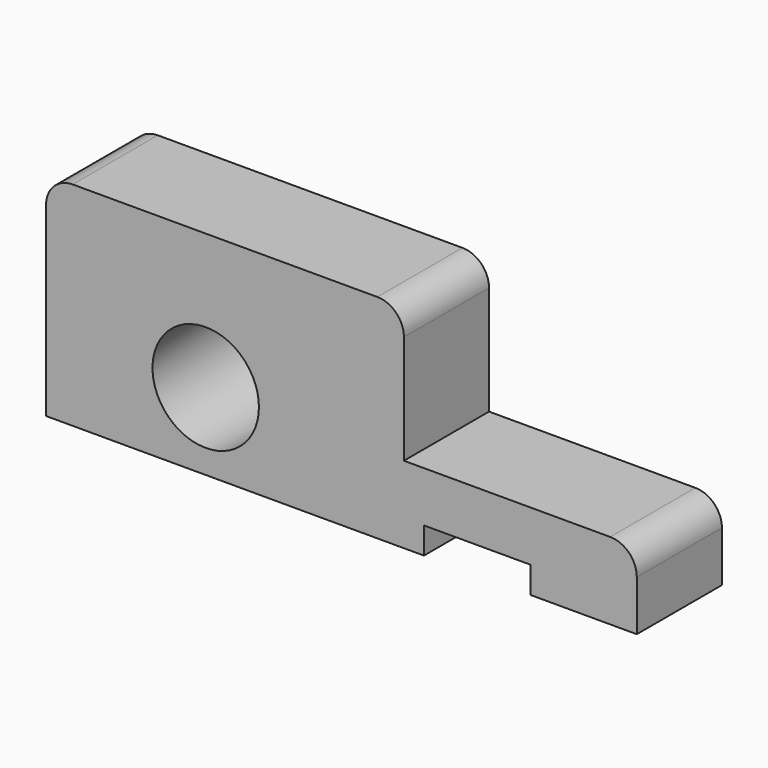
from build123d import *

# Parameters (mm, degrees)
F1_DEPTH = 20
F2_R     = 5
F3_R     = 10
F4_DEPTH = 20.001
F5_W     = 20
F5_H     = 5
F6_DEPTH = 15


with BuildPart() as f1:
    # F0 (on Front) → F1 (new body)
    with BuildSketch(Plane.XZ):
        Polygon((0, 39.944667), (0, 0), (111.015879, 0), (111.015879, 14.474314), (67.249916, 14.474314), (67.249916, 39.944667), align=None)
    extrude(amount=F1_DEPTH)

    # F2
    f2_edges = [f1.edges().sort_by_distance(p)[0] for p in [
        (67.249916, -10, 39.944667),
        (111.015879, -10, 14.474314),
        (0, -10, 39.944667),
    ]]
    fillet(f2_edges, radius=F2_R)

    # F3 (on face) → F4 (cut, through all)
    with BuildSketch(Plane.XZ.offset(20)):
        with Locations((30, 14.474314)):
            Circle(F3_R)
    extrude(amount=-F4_DEPTH, mode=Mode.SUBTRACT)

    # F5 (on face) → F6 (cut)
    with BuildSketch(Plane.XZ.offset(20)):
        with Locations((81.015879, 2.5)):
            Rectangle(F5_W, F5_H)
    extrude(amount=-F6_DEPTH, mode=Mode.SUBTRACT)


solid = f1.part
